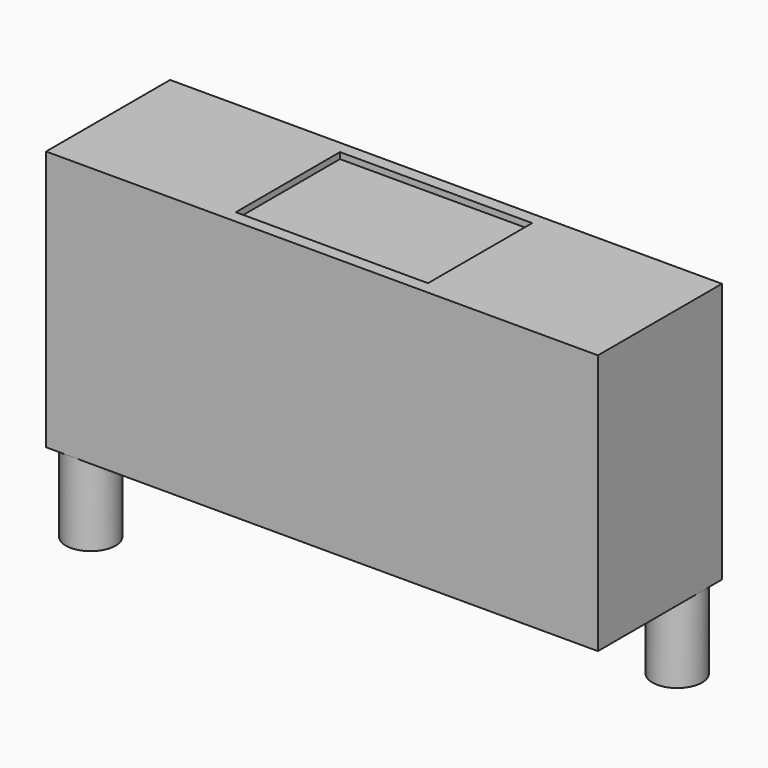
from build123d import *

# Parameters (mm, degrees)
SKETCH_W     = 89
SKETCH_H     = 25
PAD_DEPTH    = 42
SKETCH001_R  = 4
PAD001_DEPTH = 13
SKETCH002_W  = 31
SKETCH002_H  = 21
POCKET_DEPTH = 1


with BuildPart() as part:
    # Sketch → Pad (new body)
    with BuildSketch(Plane.XY):
        with Locations((44.5, -12.5)):
            Rectangle(SKETCH_W, SKETCH_H)
    extrude(amount=PAD_DEPTH)

    # Sketch001 (on Face5 of Pad) → Pad001 (join)
    with BuildSketch(Plane(origin=(0, 0, 0), x_dir=(1, 0, 0), z_dir=(0, 0, -1))):
        with Locations((85, 4)):
            Circle(SKETCH001_R)
        with Locations((4, 21)):
            Circle(SKETCH001_R)
    extrude(amount=PAD001_DEPTH)

    # Sketch002 (on Face6 of Pad001) → Pocket (cut)
    with BuildSketch(Plane.XY.offset(42)):
        with Locations((44.5, -12.5)):
            Rectangle(SKETCH002_W, SKETCH002_H)
    extrude(amount=-POCKET_DEPTH, mode=Mode.SUBTRACT)


solid = part.part
